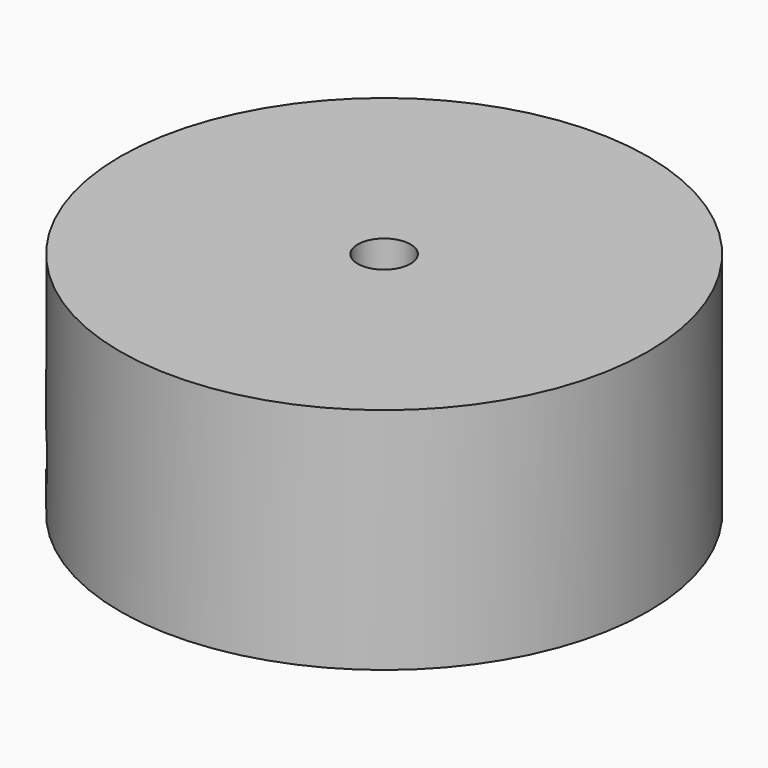
from build123d import *

# Parameters (mm, degrees)
F0_R          = 15
F1_DEPTH      = 13
F3_DEPTH      = 25
F3_DEPTH_BACK = 10
F4_R          = 1.5
F5_DEPTH      = 13.001


with BuildPart() as f1:
    # F0 (on Top) → F1 (new body)
    with BuildSketch(Plane.XY):
        Circle(F0_R)
    extrude(amount=F1_DEPTH)

    # F2 (on Right) → F3 (cut, two sides)
    with BuildSketch(Plane.YZ) as f3_sk:
        Polygon((-9, 2), (-9, 0), (9, 0), (9, 2), (10.1, 2), (10.1, 4.1), (-10.1, 4.1), (-10.1, 2), align=None)
    extrude(amount=-F3_DEPTH, mode=Mode.SUBTRACT)
    extrude(f3_sk.sketch, amount=F3_DEPTH_BACK, mode=Mode.SUBTRACT)

    # F4 (on face) → F5 (cut, through all)
    with BuildSketch(Plane.XY.offset(13)):
        Circle(F4_R)
    extrude(amount=-F5_DEPTH, mode=Mode.SUBTRACT)


solid = f1.part
